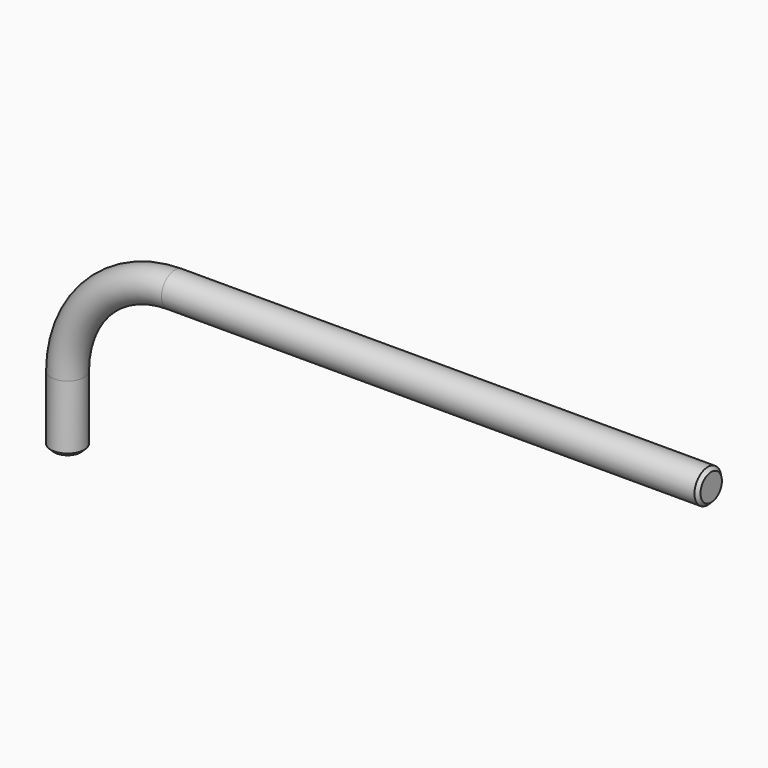
from build123d import *

# Parameters (mm, degrees)
F1_R     = 2.5
F3_SIZE2 = 0.5
F3_SIZE  = 0.5


with BuildPart() as f2:
    # F2: sweep along a path in F0
    with BuildLine(Plane.XZ) as f2_path:
        Line((0, 0), (0, 10))
        ThreePointArc((0, 10), (4.686291501, 21.313708499), (16, 26))
        Line((16, 26), (96, 26))
    # F1 (on Top) → F2 (sweep)
    with BuildSketch(Plane.XY):
        Circle(F1_R)
    sweep(path=f2_path.line)

    # F3
    f3_edges = [f2.edges().sort_by_distance(p)[0] for p in [
        (-2.5, 0, 0),
        (96, 0, 28.5),
    ]]
    chamfer(f3_edges, length=F3_SIZE, length2=F3_SIZE2)


solid = f2.part
